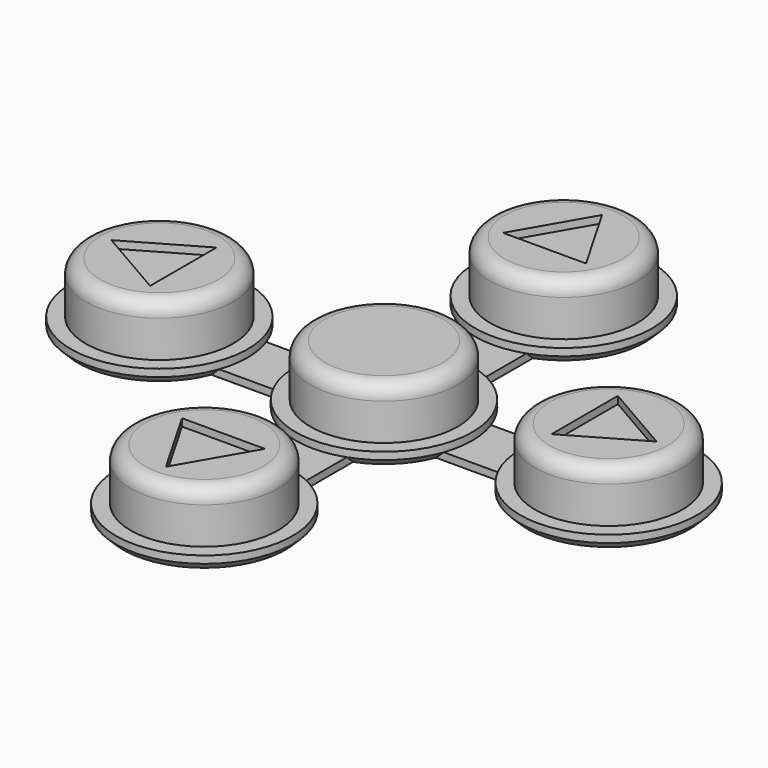
from build123d import *

# Parameters (mm, degrees)
CYLINDER_R             = 6
CYLINDER_DEPTH         = 1
CHAMFER_SIZE           = 0.5
CYLINDER001_R          = 5
CYLINDER001_DEPTH      = 4.5
FILLET_R               = 1
BOX_W                  = 30.48
BOX_H                  = 4
BOX_DEPTH              = 0.5
BOX001_W               = 30.48
BOX001_H               = 4
BOX001_DEPTH           = 0.5
BOX001_PLACEMENT_ANGLE = 90
ARRAY_COUNT            = 4
POCKET003_DEPTH        = 0.5
POLARPATTERN001_COUNT  = 4


with BuildPart() as chamfer_body:
    # Cylinder → Cylinder (new body)
    with BuildSketch(Plane.XY):
        Circle(CYLINDER_R)
    extrude(amount=CYLINDER_DEPTH)

    # Chamfer
    chamfer_edges = [chamfer_body.edges().sort_by_distance(p)[0] for p in [
        (-6, 0, 0),
    ]]
    chamfer(chamfer_edges, length=CHAMFER_SIZE)


with BuildPart() as fusion:
    # Cylinder001 → Cylinder001 (new body)
    with BuildSketch(Plane.XY):
        Circle(CYLINDER001_R)
    extrude(amount=CYLINDER001_DEPTH)

    # Fillet
    fillet_edges = [fusion.edges().sort_by_distance(p)[0] for p in [
        (-5, 0, 4.5),
    ]]
    fillet(fillet_edges, radius=FILLET_R)

    # Fusion: union Chamfer body
    add(chamfer_body.part)


with BuildPart() as cube:
    # Box → Box (new body)
    with BuildSketch(Plane(origin=(-15.24, -2, 0), x_dir=(1, 0, 0), z_dir=(0, 0, 1))):
        with Locations((15.24, 2)):
            Rectangle(BOX_W, BOX_H)
    extrude(amount=BOX_DEPTH)


with BuildPart() as cube001:
    # Box001 → Box001 (new body)
    with BuildSketch(Plane.XY):
        with Locations((15.24, 2)):
            Rectangle(BOX001_W, BOX001_H)
    extrude(amount=BOX001_DEPTH)


with BuildPart() as cube001_1:
    # Box001 placement: moved
    add(cube001.part.moved(Location((2, -15.24, 0))).rotate(Axis((2, -15.24, 0), (0, 0, 1)), BOX001_PLACEMENT_ANGLE))


with BuildPart() as polarpattern001:
    # Clone base: copy of Fusion
    add(fusion.part)


with BuildPart() as polarpattern001_1:
    # Clone placement: moved
    add(polarpattern001.part.moved(Location((0, 15.24, 0))))

    # Array: PolarPattern001 ×4 about axis
    array_axis = Axis((0, 0, 0), (0, 0, 1))


with BuildPart() as polarpattern001_2:
    add(polarpattern001_1.part)
    for i in range(1, ARRAY_COUNT):
        add(polarpattern001_1.part.rotate(array_axis, i * 360 / ARRAY_COUNT))

    # Fusion001: union Fusion, Cube, Cube001
    add(fusion.part)
    add(cube.part)
    add(cube001_1.part)

    # Sketch004 → Pocket003 (cut)
    with BuildSketch(Plane.XY.offset(4.5)):
        Polygon((0, 18.49), (-2.814583, 13.615), (2.814583, 13.615), align=None)
    pocket003 = extrude(amount=-POCKET003_DEPTH, mode=Mode.SUBTRACT)

    # PolarPattern001: Pocket003 ×4 about axis
    polarpattern001_axis = Axis((0, 0, 4.5), (0, 0, 1))
    for i in range(1, POLARPATTERN001_COUNT):
        add(pocket003.rotate(polarpattern001_axis, i * 360 / POLARPATTERN001_COUNT), mode=Mode.SUBTRACT)


solid = polarpattern001_2.part
